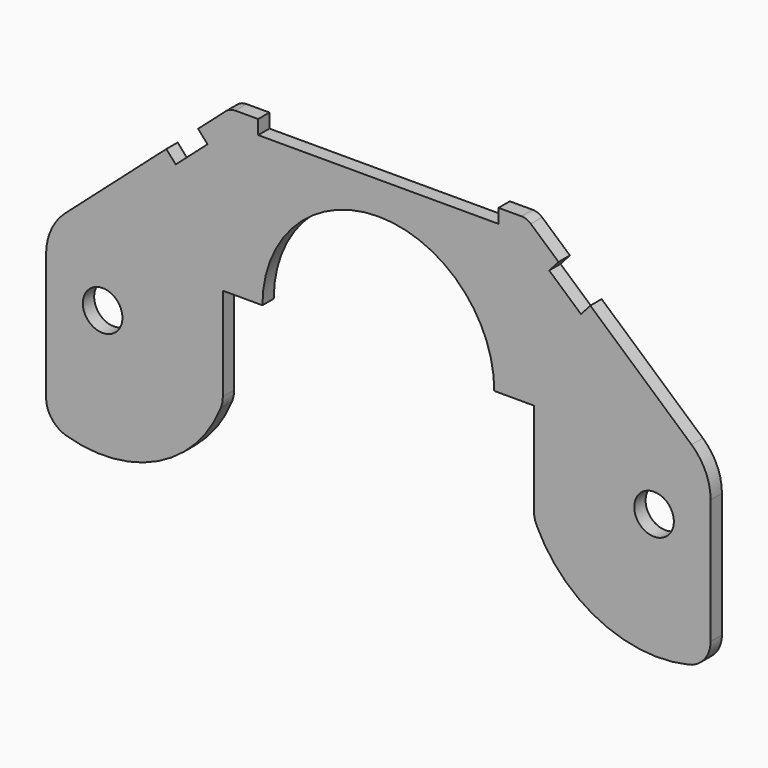
from build123d import *

# Parameters (mm, degrees)
F0_R     = 7
F1_DEPTH = 5


with BuildPart() as f1:
    # F0 (on Front) → F1 (new body)
    with BuildSketch(Plane.XZ):
        with BuildLine():
            ThreePointArc((-41, 0), (0, 41), (41, 0))
            Line((41, 0), (55, 0))
            Line((55, 0), (55, -32.678232))
            ThreePointArc((55, -32.678232), (55.244065, -34.874074), (55.964345, -36.96273))
            ThreePointArc((55.964345, -36.96273), (78.30456, -59.421975), (109.797678, -62.840521))
            ThreePointArc((109.797678, -62.840521), (115.341453, -59.313839), (117.5, -53.108067))
            Line((117.5, -53.108067), (117.5, -9.010085))
            ThreePointArc((117.5, -9.010085), (115.734988, -0.795146), (110.751478, 5.969847))
            Line((110.751478, 5.969847), (74.969897, 37.622784))
            Line((74.969897, 37.622784), (71.657027, 33.877801))
            Line((71.657027, 33.877801), (60.422079, 43.816409))
            Line((60.422079, 43.816409), (63.734948, 47.561392))
            Line((63.734948, 47.561392), (53.918715, 56.244983))
            ThreePointArc((53.918715, 56.244983), (52.377157, 57.175731), (50.605846, 57.5))
            Line((50.605846, 57.5), (42.5, 57.5))
            Line((42.5, 57.5), (42.5, 52.5))
            Line((42.5, 52.5), (-42.5, 52.5))
            Line((-42.5, 52.5), (-42.5, 57.5))
            Line((-42.5, 57.5), (-50.605846, 57.5))
            ThreePointArc((-50.605846, 57.5), (-52.377157, 57.175731), (-53.918715, 56.244983))
            Line((-53.918715, 56.244983), (-63.734948, 47.561392))
            Line((-63.734948, 47.561392), (-60.422079, 43.816409))
            Line((-60.422079, 43.816409), (-71.657027, 33.877801))
            Line((-71.657027, 33.877801), (-74.969897, 37.622784))
            Line((-74.969897, 37.622784), (-110.751478, 5.969847))
            ThreePointArc((-110.751478, 5.969847), (-115.734988, -0.795146), (-117.5, -9.010085))
            Line((-117.5, -9.010085), (-117.5, -53.54102))
            ThreePointArc((-117.5, -53.54102), (-115.517837, -59.517163), (-110.357143, -63.124168))
            ThreePointArc((-110.357143, -63.124168), (-77.910478, -60.512351), (-55.714286, -36.701919))
            ThreePointArc((-55.714286, -36.701919), (-55.180195, -34.880203), (-55, -32.990381))
            Line((-55, -32.990381), (-55, 0))
            Line((-55, 0), (-41, 0))
        make_face()
        with Locations((-97.5, -20)):
            Circle(F0_R, mode=Mode.SUBTRACT)
        with Locations((97.5, -20)):
            Circle(F0_R, mode=Mode.SUBTRACT)
    extrude(amount=F1_DEPTH)


solid = f1.part
